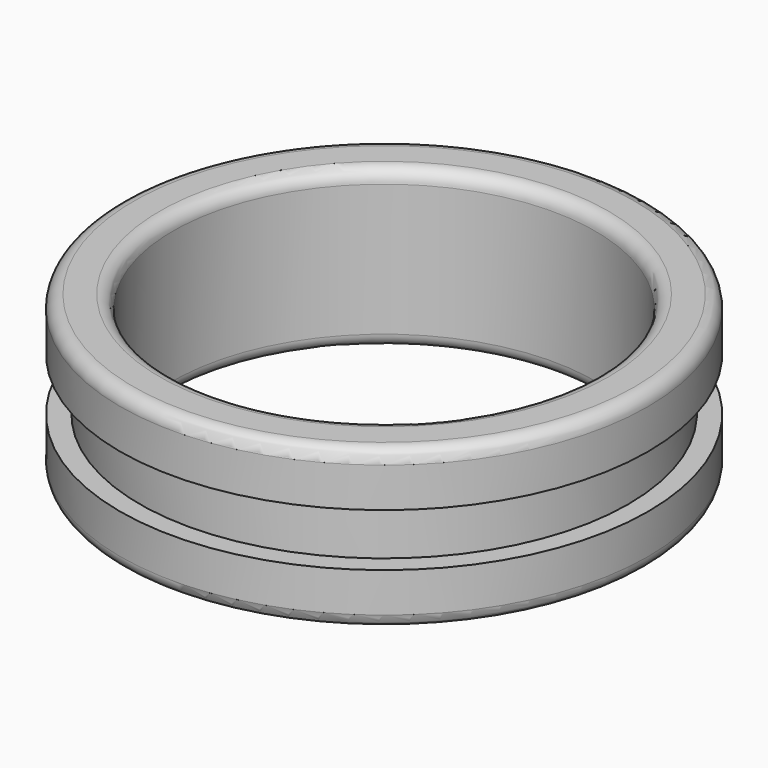
from build123d import *

# Parameters (mm, degrees)
F0_R     = 10
F0_R_2   = 9.25
F0_R_3   = 8
F1_DEPTH = 3
F2_DEPTH = 1
F3_R     = 0.5


with BuildPart() as f1:
    # F0 (on Top) → F1 (new body, symmetric)
    with BuildSketch(Plane.XY):
        Circle(F0_R)
        Circle(F0_R_2, mode=Mode.SUBTRACT)
        Circle(F0_R_2)
        Circle(F0_R_3, mode=Mode.SUBTRACT)
    extrude(amount=F1_DEPTH, both=True)

    # F0 (on Top) → F2 (cut, symmetric)
    with BuildSketch(Plane.XY):
        Circle(F0_R)
        Circle(F0_R_2, mode=Mode.SUBTRACT)
    extrude(amount=F2_DEPTH, both=True, mode=Mode.SUBTRACT)

    # F3
    f3_edges = [f1.edges().sort_by_distance(p)[0] for p in [
        (-10, 0, 3),
        (-8, 0, 3),
        (-10, 0, -3),
        (-8, 0, -3),
    ]]
    fillet(f3_edges, radius=F3_R)


solid = f1.part
